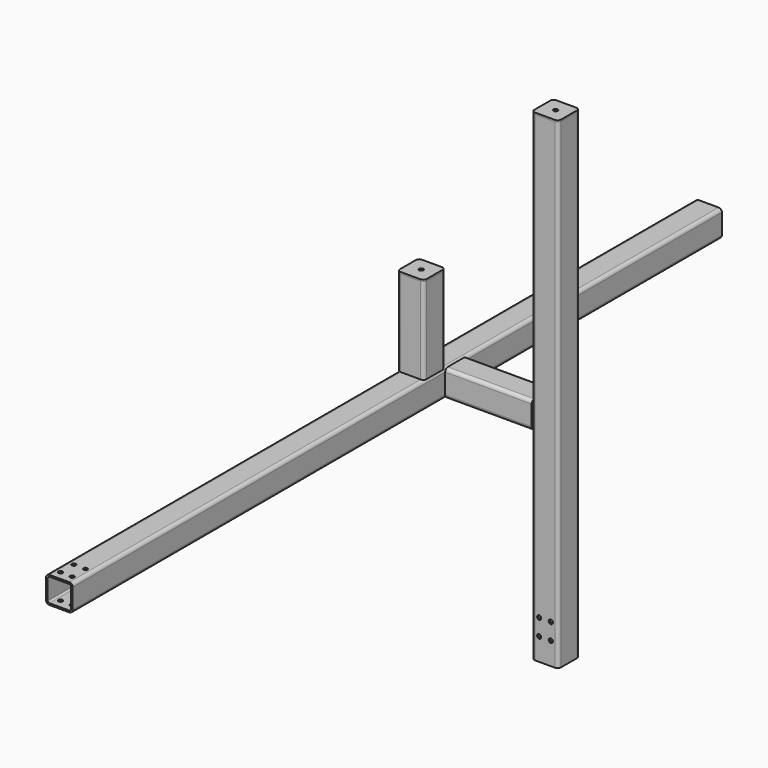
from build123d import *

# Parameters (mm, degrees)
F1_DEPTH      = 1445
F3_DEPTH      = 260
F5_DEPTH      = 1440
F5_DEPTH_BACK = 1000
F6_R          = 6.25
F7_DEPTH      = 685.001
F8_R          = 6.25
F9_DEPTH      = 1040.001
F10_R         = 6.25
F11_DEPTH     = 5
F13_DEPTH     = 260
F14_R         = 6.25
F15_DEPTH     = 5


with BuildPart() as f1:
    # F0 (on Top) → F1 (new body)
    with BuildSketch(Plane.XY):
        with BuildLine():
            ThreePointArc((40, 30), (37.0710678119, 37.0710678119), (30, 40))
            Line((30, 40), (-30, 40))
            ThreePointArc((-30, 40), (-37.0710678119, 37.0710678119), (-40, 30))
            Line((-40, 30), (-40, -30))
            ThreePointArc((-40, -30), (-37.0710678119, -37.0710678119), (-30, -40))
            Line((-30, -40), (30, -40))
            ThreePointArc((30, -40), (37.0710678119, -37.0710678119), (40, -30))
            Line((40, -30), (40, 30))
        make_face()
        with BuildLine():
            ThreePointArc((30, 35.000000149), (33.5355340113, 33.5355340113), (35.000000149, 30))
            Line((35.000000149, 30), (35.000000149, -30))
            ThreePointArc((35.000000149, -30), (33.5355340113, -33.5355340113), (30, -35.000000149))
            Line((30, -35.000000149), (-30, -35.000000149))
            ThreePointArc((-30, -35.000000149), (-33.5355340113, -33.5355340113), (-35.000000149, -30))
            Line((-35.000000149, -30), (-35.000000149, 30))
            ThreePointArc((-35.000000149, 30), (-33.5355340113, 33.5355340113), (-30, 35.000000149))
            Line((-30, 35.000000149), (30, 35.000000149))
        make_face(mode=Mode.SUBTRACT)
    extrude(amount=F1_DEPTH)

    # F8 (on face) → F9 (cut, through all)
    with BuildSketch(Plane.XZ.offset(40)):
        with Locations((17.5, 117.5)):
            Circle(F8_R)
        with Locations((17.5, 67.5)):
            Circle(F8_R)
        with Locations((-17.5, 67.5)):
            Circle(F8_R)
        with Locations((-17.5, 117.5)):
            Circle(F8_R)
    extrude(amount=-F9_DEPTH, mode=Mode.SUBTRACT)


with BuildPart() as f3:
    # F2 (on face) → F3 (new body)
    with BuildSketch(Plane(origin=(-40, 0, 0), x_dir=(0, -1, 0), z_dir=(-1, 0, 0))):
        with BuildLine():
            ThreePointArc((40, 675), (37.0710678119, 682.0710678119), (30, 685))
            Line((30, 685), (-30, 685))
            ThreePointArc((-30, 685), (-37.0710678119, 682.0710678119), (-40, 675))
            Line((-40, 675), (-40, 615))
            ThreePointArc((-40, 615), (-37.0710678119, 607.9289321881), (-30, 605))
            Line((-30, 605), (30, 605))
            ThreePointArc((30, 605), (37.0710678119, 607.9289321881), (40, 615))
            Line((40, 615), (40, 675))
        make_face()
        with BuildLine():
            ThreePointArc((30, 680.0000023842), (33.5355355918, 678.5355355918), (35.0000023842, 675))
            Line((35.0000023842, 675), (35.0000023842, 615))
            ThreePointArc((35.0000023842, 615), (33.5355355918, 611.4644644082), (30, 609.9999976158))
            Line((30, 609.9999976158), (-30, 609.9999976158))
            ThreePointArc((-30, 609.9999976158), (-33.5355355918, 611.4644644082), (-35.0000023842, 615))
            Line((-35.0000023842, 615), (-35.0000023842, 675))
            ThreePointArc((-35.0000023842, 675), (-33.5355355918, 678.5355355918), (-30, 680.0000023842))
            Line((-30, 680.0000023842), (30, 680.0000023842))
        make_face(mode=Mode.SUBTRACT)
    extrude(amount=F3_DEPTH)


with BuildPart() as f5:
    # F4 (on Front) → F5 (new body, two sides)
    with BuildSketch(Plane.XZ) as f5_sk:
        with BuildLine():
            Line((-310, 685), (-370, 685))
            ThreePointArc((-370, 685), (-377.0710678119, 682.0710678119), (-380, 675))
            Line((-380, 675), (-380, 615))
            ThreePointArc((-380, 615), (-377.0710678119, 607.9289321881), (-370, 605))
            Line((-370, 605), (-310, 605))
            ThreePointArc((-310, 605), (-302.9289321881, 607.9289321881), (-300, 615))
            Line((-300, 615), (-300, 675))
            ThreePointArc((-300, 675), (-302.9289321881, 682.0710678119), (-310, 685))
        make_face()
        with BuildLine():
            ThreePointArc((-375, 675), (-373.5355339059, 678.5355339059), (-370, 680))
            Line((-370, 680), (-310, 680))
            ThreePointArc((-310, 680), (-306.4644660941, 678.5355339059), (-305, 675))
            Line((-305, 675), (-305, 615))
            ThreePointArc((-305, 615), (-306.4644660941, 611.4644660941), (-310, 610))
            Line((-310, 610), (-370, 610))
            ThreePointArc((-370, 610), (-373.5355339059, 611.4644660941), (-375, 615))
            Line((-375, 615), (-375, 675))
        make_face(mode=Mode.SUBTRACT)
    extrude(amount=F5_DEPTH)
    extrude(f5_sk.sketch, amount=-F5_DEPTH_BACK)

    # F6 (on face) → F7 (cut, through all)
    with BuildSketch(Plane.XY.offset(685)):
        with Locations((-322.5, -1413.75)):
            Circle(F6_R)
        with Locations((-322.5, -1363.75)):
            Circle(F6_R)
        with Locations((-357.5, -1413.75)):
            Circle(F6_R)
        with Locations((-357.5, -1363.75)):
            Circle(F6_R)
    extrude(amount=-F7_DEPTH, mode=Mode.SUBTRACT)


with BuildPart() as f11:
    # F10 (on face) → F11 (new body)
    with BuildSketch(Plane.XY.offset(1445)):
        with BuildLine():
            ThreePointArc((40, 30), (37.0710678119, 37.0710678119), (30, 40))
            Line((30, 40), (-30, 40))
            ThreePointArc((-30, 40), (-37.0710678119, 37.0710678119), (-40, 30))
            Line((-40, 30), (-40, -30))
            ThreePointArc((-40, -30), (-37.0710678119, -37.0710678119), (-30, -40))
            Line((-30, -40), (30, -40))
            ThreePointArc((30, -40), (37.0710678119, -37.0710678119), (40, -30))
            Line((40, -30), (40, 30))
        make_face()
        Circle(F10_R, mode=Mode.SUBTRACT)
    extrude(amount=F11_DEPTH)


with BuildPart() as f13:
    # F12 (on face) → F13 (new body)
    with BuildSketch(Plane.XY.offset(685)):
        with BuildLine():
            ThreePointArc((-300, -50), (-302.9289321881, -42.9289321881), (-310, -40))
            Line((-310, -40), (-370, -40))
            ThreePointArc((-370, -40), (-377.0710678119, -42.9289321881), (-380, -50))
            Line((-380, -50), (-380, -110))
            ThreePointArc((-380, -110), (-377.0710678119, -117.0710678119), (-370, -120))
            Line((-370, -120), (-310, -120))
            ThreePointArc((-310, -120), (-302.9289321881, -117.0710678119), (-300, -110))
            Line((-300, -110), (-300, -50))
        make_face()
        with BuildLine():
            Line((-370, -45), (-310, -45))
            ThreePointArc((-310, -45), (-306.4644660941, -46.4644660941), (-305, -50))
            Line((-305, -50), (-305, -110))
            ThreePointArc((-305, -110), (-306.4644660941, -113.5355339059), (-310, -115))
            Line((-310, -115), (-370, -115))
            ThreePointArc((-370, -115), (-373.5355339059, -113.5355339059), (-375, -110))
            Line((-375, -110), (-375, -50))
            ThreePointArc((-375, -50), (-373.5355339059, -46.4644660941), (-370, -45))
        make_face(mode=Mode.SUBTRACT)
    extrude(amount=F13_DEPTH)


with BuildPart() as f15:
    # F14 (on face) → F15 (new body)
    with BuildSketch(Plane.XY.offset(945)):
        with BuildLine():
            ThreePointArc((-300, -50), (-302.9289321881, -42.9289321881), (-310, -40))
            Line((-310, -40), (-370, -40))
            ThreePointArc((-370, -40), (-377.0710678119, -42.9289321881), (-380, -50))
            Line((-380, -50), (-380, -110))
            ThreePointArc((-380, -110), (-377.0710678119, -117.0710678119), (-370, -120))
            Line((-370, -120), (-310, -120))
            ThreePointArc((-310, -120), (-302.9289321881, -117.0710678119), (-300, -110))
            Line((-300, -110), (-300, -50))
        make_face()
        with Locations((-340, -80)):
            Circle(F14_R, mode=Mode.SUBTRACT)
    extrude(amount=F15_DEPTH)


solid = Compound([f1.part, f3.part, f5.part, f11.part, f13.part, f15.part])
